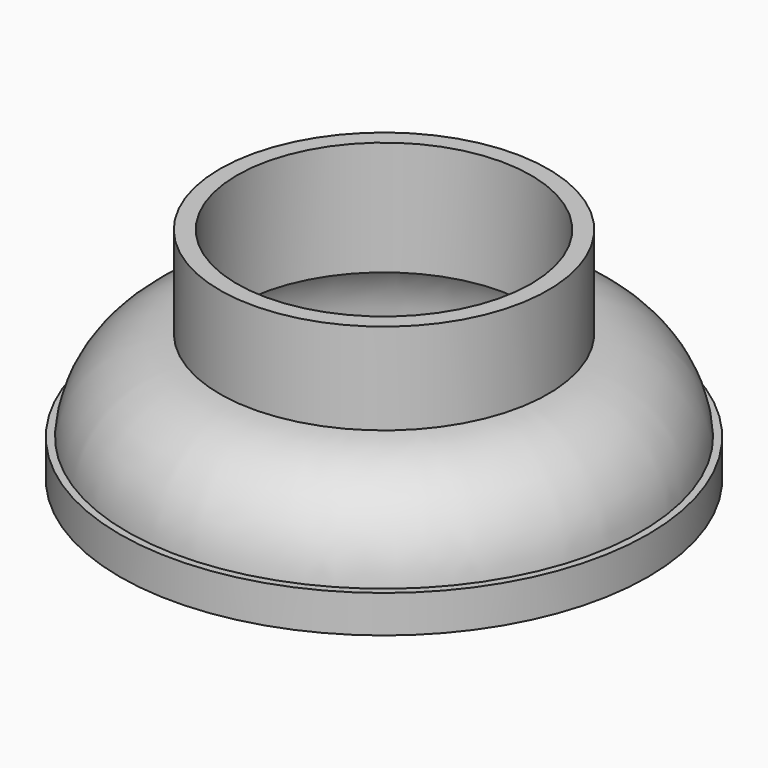
from build123d import *


with BuildPart() as f1:
    # F0 (on Front) → F1 (revolve)
    with BuildSketch(Plane.XZ):
        with BuildLine():
            Line((-5.149955, 7.7), (-5.749955, 7.7))
            Line((-5.749955, 7.7), (-5.749955, 4.5))
            ThreePointArc((-5.749955, 4.5), (-7.984899, 3.526981), (-9, 1.310833))
            Line((-9, 1.310833), (-9.25, 1.310833))
            Line((-9.25, 1.310833), (-9.25, 0))
            Line((-9.25, 0), (-8.5, 0))
            Line((-8.5, 0), (-8.5, 0.515177))
            ThreePointArc((-8.5, 0.515177), (-7.463314, 2.779041), (-5.149955, 3.7))
            Line((-5.149955, 3.7), (-5.149955, 7.7))
        make_face()
    revolve(axis=Axis((0, 0, 4.918551), (0, 0, -1)))


solid = f1.part
